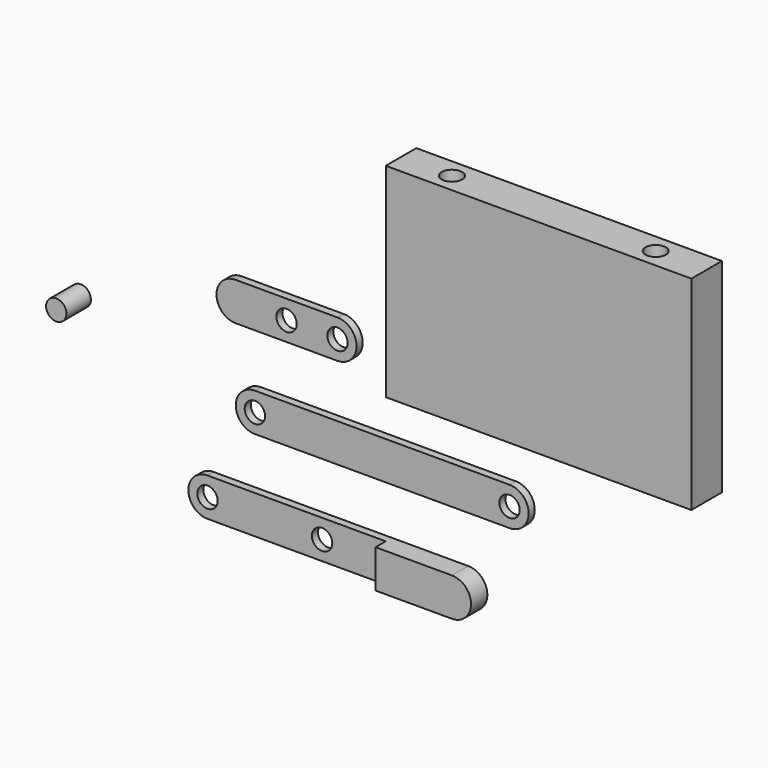
from build123d import *

# Parameters (mm, degrees)
F1_DEPTH  = 3
F3_DEPTH  = 3
F5_DEPTH  = 5
F6_R      = 4
F7_DEPTH  = 25
F8_R      = 4
F9_DEPTH  = 25
F10_R     = 4
F11_DEPTH = 3
F12_W     = 120
F12_H     = 80
F13_DEPTH = 15
F14_R     = 4
F15_DEPTH = 5
F16_R     = 4
F17_DEPTH = 5
F18_R     = 4
F19_DEPTH = 12


with BuildPart() as f1:
    # F0 (on Front) → F1 (new body)
    with BuildSketch(Plane.XZ):
        with BuildLine():
            Line((53.058239, 6.578226), (-46.941761, 6.578226))
            ThreePointArc((-46.941761, 6.578226), (-54.441761, -0.921774), (-46.941761, -8.421774))
            Line((-46.941761, -8.421774), (53.058239, -8.421774))
            ThreePointArc((53.058239, -8.421774), (60.558239, -0.921774), (53.058239, 6.578226))
        make_face()
    extrude(amount=F1_DEPTH)

    # F6 (on face) → F7 (cut)
    with BuildSketch(Plane.XZ.offset(3)):
        with Locations((53.058239, -0.921774)):
            Circle(F6_R)
        with Locations((-46.941761, -0.921774)):
            Circle(F6_R)
    extrude(amount=-F7_DEPTH, mode=Mode.SUBTRACT)


with BuildPart() as f3:
    # F2 (on Front) → F3 (new body)
    with BuildSketch(Plane.XZ):
        with BuildLine():
            Line((34.439946, -28.790323), (-65.560054, -28.790323))
            ThreePointArc((-65.560054, -28.790323), (-73.060054, -36.290323), (-65.560054, -43.790323))
            Line((-65.560054, -43.790323), (34.439946, -43.790323))
            ThreePointArc((34.439946, -43.790323), (41.939946, -36.290323), (34.439946, -28.790323))
        make_face()
    extrude(amount=F3_DEPTH)

    # F4 (on face) → F5 (join)
    with BuildSketch(Plane.XZ.offset(3)):
        with BuildLine():
            Line((34.439946, -28.790323), (4.439946, -28.790323))
            Line((4.439946, -28.790323), (4.439946, -43.790323))
            Line((4.439946, -43.790323), (34.439946, -43.790323))
            ThreePointArc((34.439946, -43.790323), (41.939946, -36.290323), (34.439946, -28.790323))
        make_face()
    extrude(amount=F5_DEPTH)

    # F8 (on face) → F9 (cut)
    with BuildSketch(Plane.XZ.offset(8)):
        with Locations((-65.560054, -36.290323)):
            Circle(F8_R)
        with Locations((-20.560054, -36.290323)):
            Circle(F8_R)
    extrude(amount=-F9_DEPTH, mode=Mode.SUBTRACT)


with BuildPart() as f11:
    # F10 (on Front) → F11 (new body)
    with BuildSketch(Plane.XZ):
        with BuildLine():
            Line((-14.520992, 42.429436), (-54.520992, 42.429436))
            ThreePointArc((-54.520992, 42.429436), (-62.020992, 34.929436), (-54.520992, 27.429436))
            Line((-54.520992, 27.429436), (-14.520992, 27.429436))
            ThreePointArc((-14.520992, 27.429436), (-7.020992, 34.929436), (-14.520992, 42.429436))
        make_face()
        with Locations((-34.520992, 34.929436)):
            Circle(F10_R, mode=Mode.SUBTRACT)
        with Locations((-14.520992, 34.929436)):
            Circle(F10_R, mode=Mode.SUBTRACT)
    extrude(amount=F11_DEPTH)


with BuildPart() as f13:
    # F12 (on Front) → F13 (new body)
    with BuildSketch(Plane.XZ):
        with Locations((74.050978, 69.042339)):
            Rectangle(F12_W, F12_H)
    extrude(amount=F13_DEPTH)

    # F14 (on face) → F15 (cut)
    with BuildSketch(Plane(origin=(0, 0, 29.042339), x_dir=(1, 0, 0), z_dir=(0, 0, -1))):
        with Locations((34.050978, 7.5)):
            Circle(F14_R)
        with Locations((114.050978, 7.5)):
            Circle(F14_R)
    extrude(amount=-F15_DEPTH, mode=Mode.SUBTRACT)

    # F16 (on face) → F17 (cut)
    with BuildSketch(Plane.XY.offset(109.042339)):
        with Locations((34.050978, -7.5)):
            Circle(F16_R)
        with Locations((114.050978, -7.5)):
            Circle(F16_R)
    extrude(amount=-F17_DEPTH, mode=Mode.SUBTRACT)


with BuildPart() as f19:
    # F18 (on Front) → F19 (new body)
    with BuildSketch(Plane.XZ):
        with Locations((-117.745496, 15.128797)):
            Circle(F18_R)
    extrude(amount=F19_DEPTH)


solid = Compound([f1.part, f3.part, f11.part, f13.part, f19.part])
